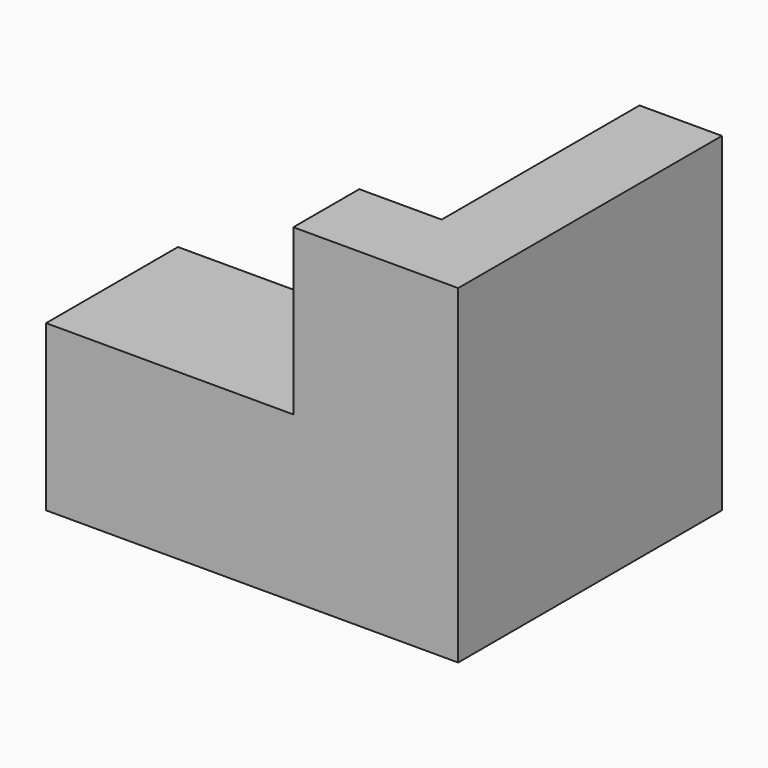
from build123d import *

# Parameters (mm, degrees)
F0_W     = 40
F0_H     = 40
F1_DEPTH = 10
F2_W     = 40
F2_H     = 20
F3_DEPTH = 20
F4_W     = 20
F4_H     = 20
F5_DEPTH = 20
F6_W     = 10
F6_H     = 20
F7_DEPTH = 10


with BuildPart() as f1:
    # F0 (on Right) → F1 (new body)
    with BuildSketch(Plane.YZ):
        with Locations((20, 20)):
            Rectangle(F0_W, F0_H)
    extrude(amount=-F1_DEPTH)

    # F2 (on face) → F3 (join)
    with BuildSketch(Plane(origin=(-10, 0, 0), x_dir=(0, -1, 0), z_dir=(-1, 0, 0))):
        with Locations((-20, 10)):
            Rectangle(F2_W, F2_H)
    extrude(amount=F3_DEPTH)

    # F4 (on face) → F5 (join)
    with BuildSketch(Plane(origin=(-30, 0, 0), x_dir=(0, -1, 0), z_dir=(-1, 0, 0))):
        with Locations((-10, 10)):
            Rectangle(F4_W, F4_H)
    extrude(amount=F5_DEPTH)

    # F6 (on face) → F7 (join)
    with BuildSketch(Plane(origin=(-10, 0, 0), x_dir=(0, -1, 0), z_dir=(-1, 0, 0))):
        with Locations((-5, 30)):
            Rectangle(F6_W, F6_H)
    extrude(amount=F7_DEPTH)


solid = f1.part
